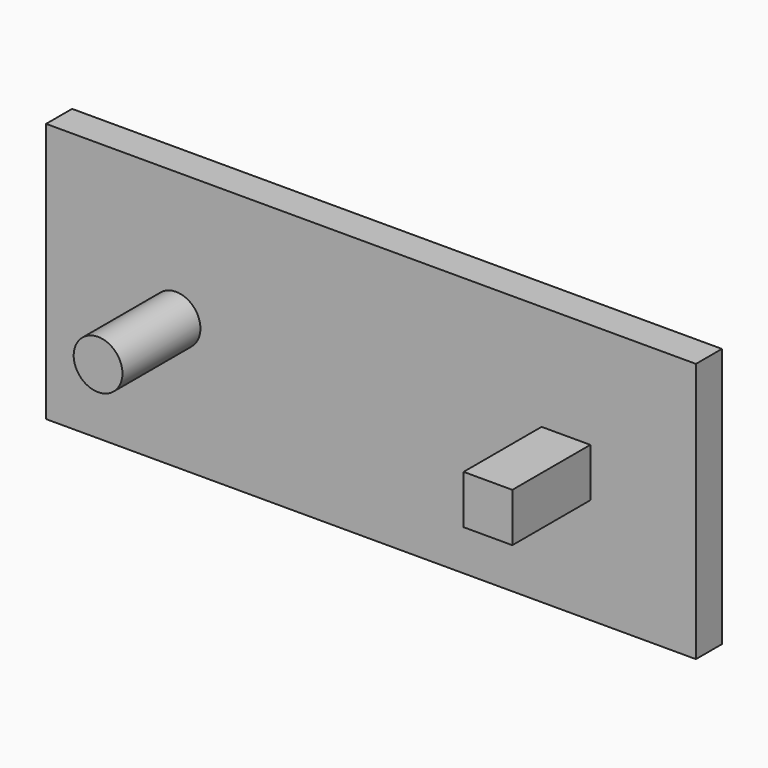
from build123d import *

# Parameters (mm, degrees)
F0_W     = 127
F0_H     = 50.8
F0_R     = 4.7625
F0_W_2   = 9.525
F0_H_2   = 9.525
F1_DEPTH = 6.35
F2_DEPTH = 25.4


with BuildPart() as f1:
    # F0 (on Front) → F1 (new body)
    with BuildSketch(Plane.XZ):
        Rectangle(F0_W, F0_H)
        with Locations((-38.1, 0)):
            Circle(F0_R, mode=Mode.SUBTRACT)
        with Locations((38.1, 0)):
            Rectangle(F0_W_2, F0_H_2, mode=Mode.SUBTRACT)
    extrude(amount=F1_DEPTH)


with BuildPart() as f2:
    # F0 (on Front) → F2 (new body)
    with BuildSketch(Plane.XZ):
        with Locations((38.1, 0)):
            Rectangle(F0_W_2, F0_H_2)
        with Locations((-38.1, 0)):
            Circle(F0_R)
    extrude(amount=F2_DEPTH)


solid = Compound([f1.part, f2.part])
